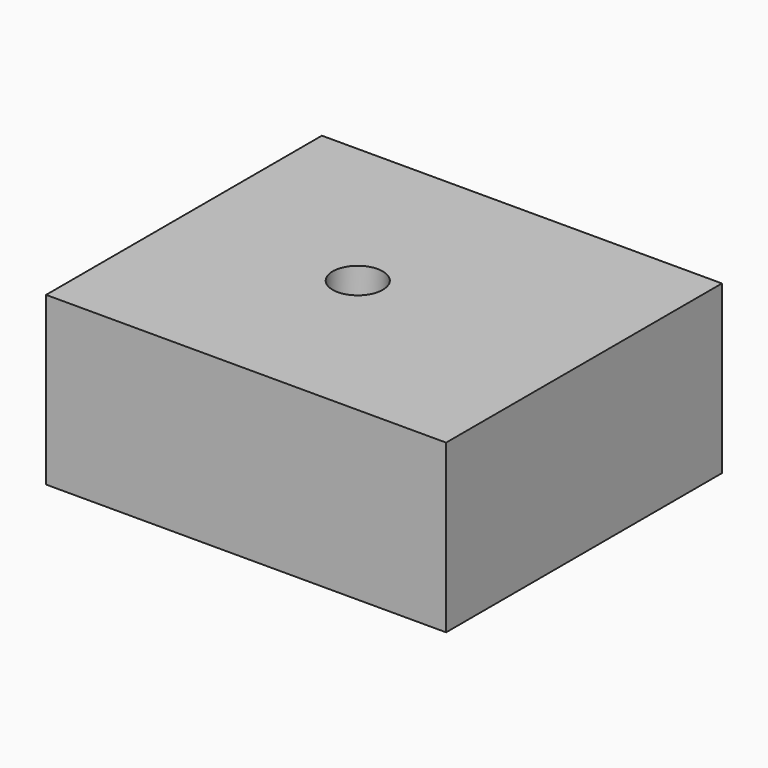
from build123d import *

# Parameters (mm, degrees)
SKETCH001_W     = 23.95
SKETCH001_H     = 20.64
SKETCH001_R     = 1.5
PAD_DEPTH       = 10
SKETCH_W        = 21.15
SKETCH_H        = 18.24
POCKET_DEPTH    = 8
SKETCH002_W     = 21.15
SKETCH002_H     = 1
PAD001_DEPTH    = 1.5
SKETCH003_W     = 21.15
SKETCH003_H     = 1
PAD002_DEPTH    = 1.5
SKETCH004_W     = 21.15
SKETCH004_H     = 0.5
PAD003_DEPTH    = 0.5
SKETCH005_W     = 21.15
SKETCH005_H     = 0.5
PAD004_DEPTH    = 0.5
SKETCH006_W     = 10
SKETCH006_H     = 6
POCKET001_DEPTH = 5


with BuildPart() as part:
    # Sketch001 → Pad (new body)
    with BuildSketch(Plane.XY):
        with Locations((0, 9.12)):
            Rectangle(SKETCH001_W, SKETCH001_H)
        with Locations((-1.5, 9.03)):
            Circle(SKETCH001_R, mode=Mode.SUBTRACT)
    extrude(amount=PAD_DEPTH)

    # Sketch → Pocket (cut)
    with BuildSketch(Plane.XY):
        with Locations((0, 9.12)):
            Rectangle(SKETCH_W, SKETCH_H)
    extrude(amount=POCKET_DEPTH, mode=Mode.SUBTRACT)

    # Sketch002 (on Face8 of Pocket) → Pad001 (join)
    with BuildSketch(Plane(origin=(0, 0, 0), x_dir=(-1, 0, 0), z_dir=(0, 1, 0))):
        with Locations((0, 4.25)):
            Rectangle(SKETCH002_W, SKETCH002_H)
    extrude(amount=PAD001_DEPTH)

    # Sketch003 (on Face10 of Pad001) → Pad002 (join)
    with BuildSketch(Plane.XZ.offset(-18.24)):
        with Locations((0, 4.25)):
            Rectangle(SKETCH003_W, SKETCH003_H)
    extrude(amount=PAD002_DEPTH)

    # Sketch004 (on Face10 of Pad002) → Pad003 (join)
    with BuildSketch(Plane.XZ.offset(-18.24)):
        with Locations((0, 1.95)):
            Rectangle(SKETCH004_W, SKETCH004_H)
    extrude(amount=PAD003_DEPTH)

    # Sketch005 (on Face8 of Pad003) → Pad004 (join)
    with BuildSketch(Plane(origin=(0, 0, 0), x_dir=(-1, 0, 0), z_dir=(0, 1, 0))):
        with Locations((0, 1.95)):
            Rectangle(SKETCH005_W, SKETCH005_H)
    extrude(amount=PAD004_DEPTH)

    # Sketch006 (on Face2 of Pad004) → Pocket001 (cut)
    with BuildSketch(Plane(origin=(-11.975, 0, 0), x_dir=(0, -1, 0), z_dir=(-1, 0, 0))):
        with Locations((-8.44, 3)):
            Rectangle(SKETCH006_W, SKETCH006_H)
    extrude(amount=-POCKET001_DEPTH, mode=Mode.SUBTRACT)


solid = part.part
